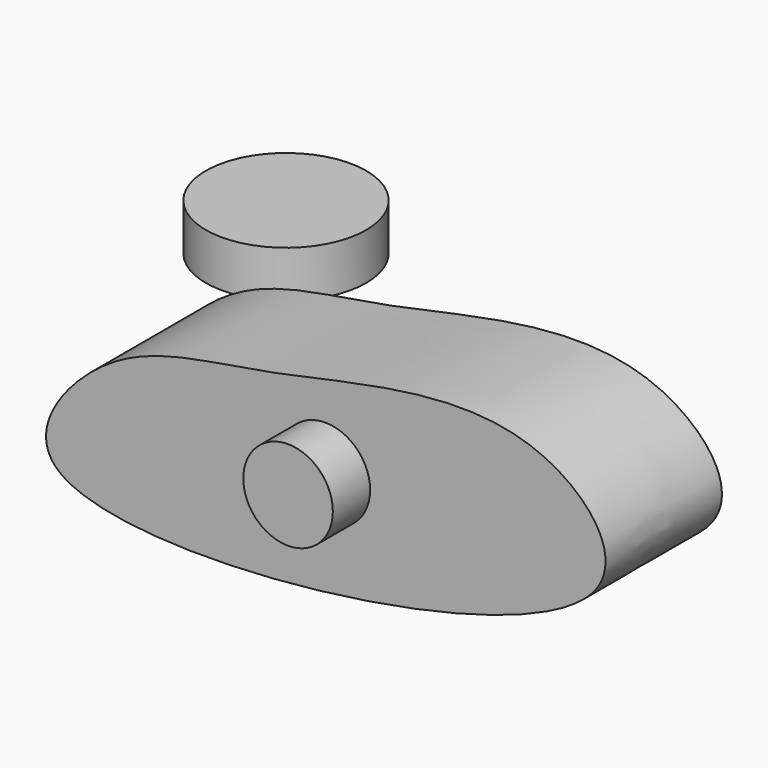
from build123d import *

# Parameters (mm, degrees)
F1_DEPTH = 78
F2_R     = 23.9960708061
F3_DEPTH = 25
F4_R     = 42.9889048228
F5_DEPTH = 25


with BuildPart() as f1:
    # F0 (on Front) → F1 (new body)
    with BuildSketch(Plane.XZ):
        with BuildLine():
            add(Edge.make_bspline(
                [(-143.1382447481, -36.0002703965), (-160.4482080617, -21.0709410685), (-115.9798959139, 38.9255963548), (-31.4591819286, 41.5475990869), (107.6419420643, 85.0621224194), (207.4152261336, -32.9201125907), (-105.7058521811, -68.2845974077), (-143.1382447481, -36.0002703965)],
                knots=[0, 0, 0, 0, 0.144133532, 0.3208955861, 0.5391684157, 0.6883145936, 1, 1, 1, 1], degree=3))
        make_face()
    extrude(amount=F1_DEPTH)

    # F2 (on face) → F3 (join)
    with BuildSketch(Plane.XZ.offset(78)):
        with Locations((0, 9.2452717945)):
            Circle(F2_R)
    extrude(amount=F3_DEPTH)


with BuildPart() as f5:
    # F4 (on Top) → F5 (new body)
    with BuildSketch(Plane.XY):
        with Locations((-148.5619992018, 81.3354700804)):
            Circle(F4_R)
    extrude(amount=F5_DEPTH)


solid = Compound([f1.part, f5.part])
